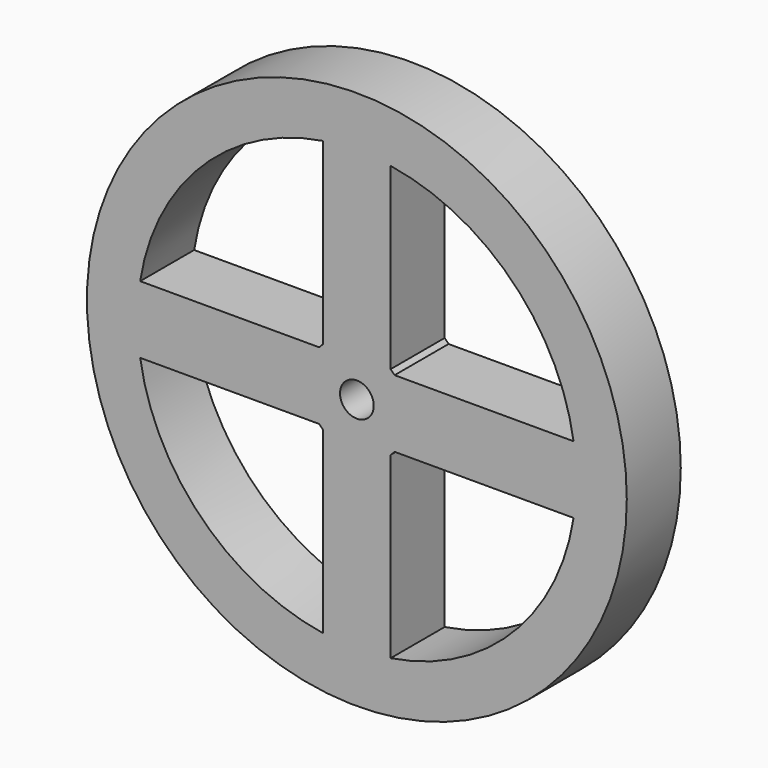
from build123d import *

# Parameters (mm, degrees)
F0_R     = 40
F0_R_2   = 2.5
F1_DEPTH = 10


with BuildPart() as f1:
    # F0 (on Front) → F1 (new body)
    with BuildSketch(Plane.XZ):
        Circle(F0_R)
        with BuildLine():
            ThreePointArc((-5.59017, -5), (-5.303301, -5.303301), (-5, -5.59017))
            Line((-5, -5.59017), (-5, -32.113081))
            ThreePointArc((-5, -32.113081), (-22.98097, -22.98097), (-32.113081, -5))
            Line((-32.113081, -5), (-5.59017, -5))
        make_face(mode=Mode.SUBTRACT)
        with BuildLine():
            Line((5.59017, -5), (32.113081, -5))
            ThreePointArc((32.113081, -5), (22.98097, -22.98097), (5, -32.113081))
            Line((5, -32.113081), (5, -5.59017))
            ThreePointArc((5, -5.59017), (5.303301, -5.303301), (5.59017, -5))
        make_face(mode=Mode.SUBTRACT)
        with BuildLine():
            ThreePointArc((-32.113081, 5), (-22.98097, 22.98097), (-5, 32.113081))
            Line((-5, 32.113081), (-5, 5.59017))
            ThreePointArc((-5, 5.59017), (-5.303301, 5.303301), (-5.59017, 5))
            Line((-5.59017, 5), (-32.113081, 5))
        make_face(mode=Mode.SUBTRACT)
        Circle(F0_R_2, mode=Mode.SUBTRACT)
        with BuildLine():
            Line((32.113081, 5), (5.59017, 5))
            ThreePointArc((5.59017, 5), (5.303301, 5.303301), (5, 5.59017))
            Line((5, 5.59017), (5, 32.113081))
            ThreePointArc((5, 32.113081), (22.98097, 22.98097), (32.113081, 5))
        make_face(mode=Mode.SUBTRACT)
    extrude(amount=F1_DEPTH)


solid = f1.part
